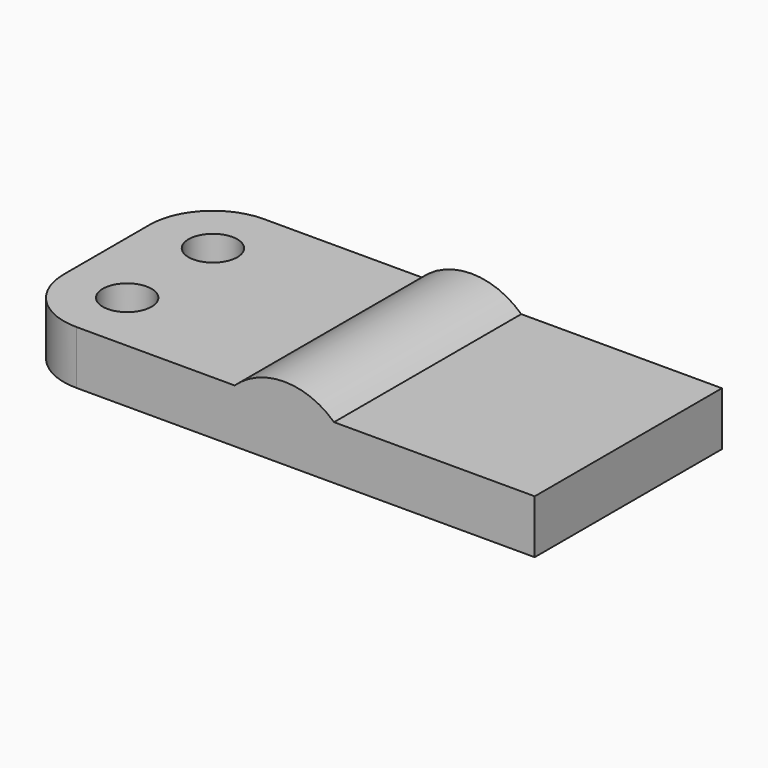
from build123d import *

# Parameters (mm, degrees)
F0_R     = 127
F1_DEPTH = 279.4
F3_DEPTH = 1219.2


with BuildPart() as f1:
    # F0 (on Top) → F1 (new body)
    with BuildSketch(Plane.XY):
        with BuildLine():
            ThreePointArc((-1358.9, -279.4), (-1262.1866591478, -512.8866591478), (-1028.7, -609.6))
            Line((-1028.7, -609.6), (1358.9, -609.6))
            Line((1358.9, -609.6), (1358.9, 609.6))
            Line((1358.9, 609.6), (-1028.7, 609.6))
            ThreePointArc((-1028.7, 609.6), (-1262.1866591478, 512.8866591478), (-1358.9, 279.4))
            Line((-1358.9, 279.4), (-1358.9, -279.4))
        make_face()
        with Locations((-1028.7, -279.4)):
            Circle(F0_R, mode=Mode.SUBTRACT)
        with Locations((-1028.7, 279.4)):
            Circle(F0_R, mode=Mode.SUBTRACT)
    extrude(amount=F1_DEPTH)

    # F2 (on face) → F3 (join)
    with BuildSketch(Plane.XZ.offset(609.6)):
        with BuildLine():
            Line((-204.7378812613, 279.4), (313.3225013198, 279.4))
            ThreePointArc((313.3225013198, 279.4), (54.2923100293, 381), (-204.7378812613, 279.4))
        make_face()
        with BuildLine():
            ThreePointArc((-187.0076899707, 0), (54.2923100293, 241.3), (295.5923100293, 0))
            Line((295.5923100293, 0), (435.2923100293, 0))
            ThreePointArc((435.2923100293, 0), (403.4709912812, 152.4311272646), (313.3225013198, 279.4))
            Line((313.3225013198, 279.4), (-204.7378812613, 279.4))
            ThreePointArc((-204.7378812613, 279.4), (-294.8863712227, 152.4311272646), (-326.7076899707, 0))
            Line((-326.7076899707, 0), (-187.0076899707, 0))
        make_face()
    extrude(amount=-F3_DEPTH)


solid = f1.part
